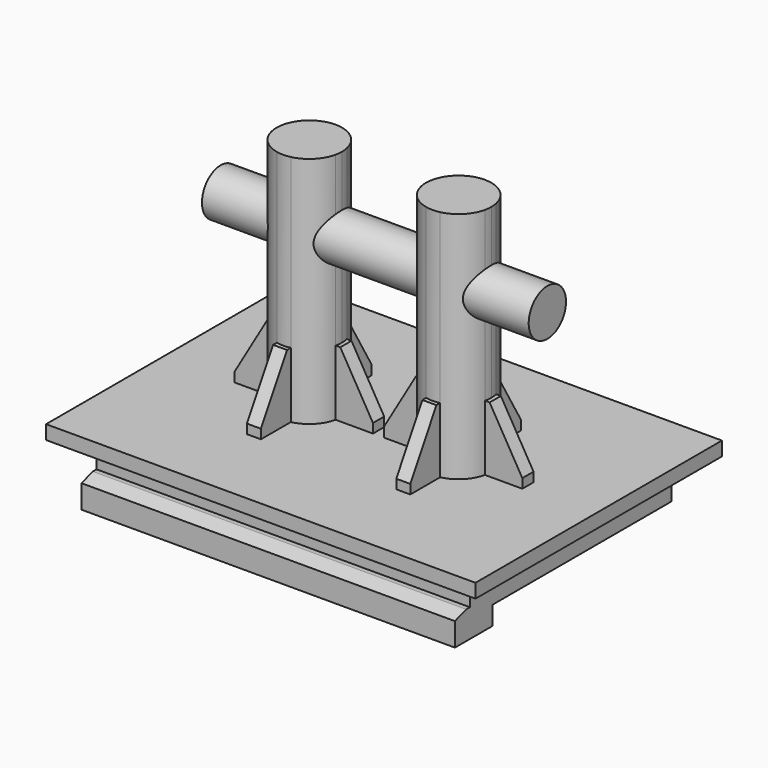
from build123d import *

# Parameters (mm, degrees)
F0_W       = 46
F0_H       = 33
F0_W_2     = 40
F0_H_2     = 27
F1_DEPTH   = 1.5
F2_DEPTH   = 5.5
F3_DEPTH   = 25
F4_R       = 2.5
F5_DEPTH   = 17.5
F6_DEPTH   = 7
F7_SIZE2   = 6
F7_SIZE    = 3.5
F7_2_SIZE2 = 6
F7_2_SIZE  = 3.5
F7_3_SIZE2 = 6
F7_3_SIZE  = 3.5
F7_4_SIZE2 = 6
F7_4_SIZE  = 3.5
F8_SIZE2   = 3.5
F8_SIZE    = 6
F8_2_SIZE2 = 3.5
F8_2_SIZE  = 6
F8_3_SIZE2 = 3.5
F8_3_SIZE  = 6
F8_4_SIZE2 = 3.5
F8_4_SIZE  = 6
F9_W       = 40
F9_H       = 3
F10_DEPTH  = 2
F11_W      = 40
F11_H      = 3
F12_DEPTH  = 2
F13_SIZE2  = 0.5
F13_SIZE   = 1.5


with BuildPart() as f1:
    # F0 (on Top) → F1 (new body)
    with BuildSketch(Plane.XY):
        Rectangle(F0_W, F0_H)
        Rectangle(F0_W_2, F0_H_2, mode=Mode.SUBTRACT)
        Rectangle(F0_W_2, F0_H_2)
        with BuildLine():
            Line((-0.5813014172, 0.75), (-0.5813014172, 0))
            Line((-0.5813014172, 0), (-0.5813014172, -0.75))
            Line((-0.5813014172, -0.75), (-4.5813014172, -0.75))
            ThreePointArc((-4.5813014172, -0.75), (-5.5251262658, -2.4748737342), (-7.25, -3.4186985828))
            Line((-7.25, -3.4186985828), (-7.25, -7.4186985828))
            Line((-7.25, -7.4186985828), (-8.75, -7.4186985828))
            Line((-8.75, -7.4186985828), (-8.75, -3.4186985828))
            ThreePointArc((-8.75, -3.4186985828), (-10.4748737342, -2.4748737342), (-11.4186985828, -0.75))
            Line((-11.4186985828, -0.75), (-15.4186985828, -0.75))
            Line((-15.4186985828, -0.75), (-15.4186985828, 0.75))
            Line((-15.4186985828, 0.75), (-11.4186985828, 0.75))
            ThreePointArc((-11.4186985828, 0.75), (-10.4748737342, 2.4748737342), (-8.75, 3.4186985828))
            Line((-8.75, 3.4186985828), (-8.75, 7.4186985828))
            Line((-8.75, 7.4186985828), (-7.25, 7.4186985828))
            Line((-7.25, 7.4186985828), (-7.25, 3.4186985828))
            ThreePointArc((-7.25, 3.4186985828), (-5.5251262658, 2.4748737342), (-4.5813014172, 0.75))
            Line((-4.5813014172, 0.75), (-0.5813014172, 0.75))
        make_face(mode=Mode.SUBTRACT)
        with BuildLine():
            Line((0.5813014172, -0.75), (0.5813014172, 0))
            Line((0.5813014172, 0), (0.5813014172, 0.75))
            Line((0.5813014172, 0.75), (4.5813014172, 0.75))
            ThreePointArc((4.5813014172, 0.75), (5.5251262658, 2.4748737342), (7.25, 3.4186985828))
            Line((7.25, 3.4186985828), (7.25, 7.4186985828))
            Line((7.25, 7.4186985828), (8.75, 7.4186985828))
            Line((8.75, 7.4186985828), (8.75, 3.4186985828))
            ThreePointArc((8.75, 3.4186985828), (10.4748737342, 2.4748737342), (11.4186985828, 0.75))
            Line((11.4186985828, 0.75), (15.4186985828, 0.75))
            Line((15.4186985828, 0.75), (15.4186985828, -0.75))
            Line((15.4186985828, -0.75), (11.4186985828, -0.75))
            ThreePointArc((11.4186985828, -0.75), (10.4748737342, -2.4748737342), (8.75, -3.4186985828))
            Line((8.75, -3.4186985828), (8.75, -7.4186985828))
            Line((8.75, -7.4186985828), (7.25, -7.4186985828))
            Line((7.25, -7.4186985828), (7.25, -3.4186985828))
            ThreePointArc((7.25, -3.4186985828), (5.5251262658, -2.4748737342), (4.5813014172, -0.75))
            Line((4.5813014172, -0.75), (0.5813014172, -0.75))
        make_face(mode=Mode.SUBTRACT)
        with BuildLine():
            ThreePointArc((-4.5813014172, -0.75), (-4.5203847167, -0.3771968718), (-4.5, 0))
            ThreePointArc((-4.5, 0), (-4.5203847167, 0.3771968718), (-4.5813014172, 0.75))
            ThreePointArc((-4.5813014172, 0.75), (-5.5251262658, 2.4748737342), (-7.25, 3.4186985828))
            Line((-7.25, 3.4186985828), (-8.75, 3.4186985828))
            ThreePointArc((-8.75, 3.4186985828), (-10.4748737342, 2.4748737342), (-11.4186985828, 0.75))
            ThreePointArc((-11.4186985828, 0.75), (-11.5, 0), (-11.4186985828, -0.75))
            ThreePointArc((-11.4186985828, -0.75), (-10.4748737342, -2.4748737342), (-8.75, -3.4186985828))
            ThreePointArc((-8.75, -3.4186985828), (-8, -3.5), (-7.25, -3.4186985828))
            ThreePointArc((-7.25, -3.4186985828), (-5.5251262658, -2.4748737342), (-4.5813014172, -0.75))
        make_face()
        with BuildLine():
            ThreePointArc((4.5813014172, 0.75), (4.5203847167, 0.3771968718), (4.5, 0))
            ThreePointArc((4.5, 0), (4.5203847167, -0.3771968718), (4.5813014172, -0.75))
            ThreePointArc((4.5813014172, -0.75), (5.5251262658, -2.4748737342), (7.25, -3.4186985828))
            ThreePointArc((7.25, -3.4186985828), (8, -3.5), (8.75, -3.4186985828))
            ThreePointArc((8.75, -3.4186985828), (10.4748737342, -2.4748737342), (11.4186985828, -0.75))
            ThreePointArc((11.4186985828, -0.75), (11.4796152833, -0.3771968718), (11.5, 0))
            ThreePointArc((11.5, 0), (11.4796152833, 0.3771968718), (11.4186985828, 0.75))
            ThreePointArc((11.4186985828, 0.75), (10.4748737342, 2.4748737342), (8.75, 3.4186985828))
            Line((8.75, 3.4186985828), (7.25, 3.4186985828))
            ThreePointArc((7.25, 3.4186985828), (5.5251262658, 2.4748737342), (4.5813014172, 0.75))
        make_face()
        with BuildLine():
            Line((-7.25, -7.4186985828), (-7.25, -3.4186985828))
            ThreePointArc((-7.25, -3.4186985828), (-8, -3.5), (-8.75, -3.4186985828))
            Line((-8.75, -3.4186985828), (-8.75, -7.4186985828))
            Line((-8.75, -7.4186985828), (-7.25, -7.4186985828))
        make_face()
        with BuildLine():
            ThreePointArc((-8.75, 3.4186985828), (-8, 3.5), (-7.25, 3.4186985828))
            Line((-7.25, 3.4186985828), (-7.25, 7.4186985828))
            Line((-7.25, 7.4186985828), (-8.75, 7.4186985828))
            Line((-8.75, 7.4186985828), (-8.75, 3.4186985828))
        make_face()
        with BuildLine():
            ThreePointArc((-11.4186985828, -0.75), (-11.5, 0), (-11.4186985828, 0.75))
            Line((-11.4186985828, 0.75), (-15.4186985828, 0.75))
            Line((-15.4186985828, 0.75), (-15.4186985828, -0.75))
            Line((-15.4186985828, -0.75), (-11.4186985828, -0.75))
        make_face()
        with BuildLine():
            Line((-4.5, 0), (-0.5813014172, 0))
            Line((-0.5813014172, 0), (-0.5813014172, 0.75))
            Line((-0.5813014172, 0.75), (-4.5813014172, 0.75))
            ThreePointArc((-4.5813014172, 0.75), (-4.5203847167, 0.3771968718), (-4.5, 0))
        make_face()
        with BuildLine():
            Line((-0.5813014172, -0.75), (-0.5813014172, 0))
            Line((-0.5813014172, 0), (-4.5, 0))
            ThreePointArc((-4.5, 0), (-4.5203847167, -0.3771968718), (-4.5813014172, -0.75))
            Line((-4.5813014172, -0.75), (-0.5813014172, -0.75))
        make_face()
        with BuildLine():
            Line((4.5, 0), (0.5813014172, 0))
            Line((0.5813014172, 0), (0.5813014172, -0.75))
            Line((0.5813014172, -0.75), (4.5813014172, -0.75))
            ThreePointArc((4.5813014172, -0.75), (4.5203847167, -0.3771968718), (4.5, 0))
        make_face()
        with BuildLine():
            Line((0.5813014172, 0.75), (0.5813014172, 0))
            Line((0.5813014172, 0), (4.5, 0))
            ThreePointArc((4.5, 0), (4.5203847167, 0.3771968718), (4.5813014172, 0.75))
            Line((4.5813014172, 0.75), (0.5813014172, 0.75))
        make_face()
        with BuildLine():
            Line((7.25, 7.4186985828), (7.25, 3.4186985828))
            ThreePointArc((7.25, 3.4186985828), (8, 3.5), (8.75, 3.4186985828))
            Line((8.75, 3.4186985828), (8.75, 7.4186985828))
            Line((8.75, 7.4186985828), (7.25, 7.4186985828))
        make_face()
        with BuildLine():
            Line((15.4186985828, 0.75), (11.4186985828, 0.75))
            ThreePointArc((11.4186985828, 0.75), (11.4796152833, 0.3771968718), (11.5, 0))
            ThreePointArc((11.5, 0), (11.4796152833, -0.3771968718), (11.4186985828, -0.75))
            Line((11.4186985828, -0.75), (15.4186985828, -0.75))
            Line((15.4186985828, -0.75), (15.4186985828, 0.75))
        make_face()
        with BuildLine():
            ThreePointArc((8.75, -3.4186985828), (8, -3.5), (7.25, -3.4186985828))
            Line((7.25, -3.4186985828), (7.25, -7.4186985828))
            Line((7.25, -7.4186985828), (8.75, -7.4186985828))
            Line((8.75, -7.4186985828), (8.75, -3.4186985828))
        make_face()
        with BuildLine():
            ThreePointArc((8.75, 3.4186985828), (8, 3.5), (7.25, 3.4186985828))
            Line((7.25, 3.4186985828), (8.75, 3.4186985828))
        make_face()
        with BuildLine():
            Line((-8.75, 3.4186985828), (-7.25, 3.4186985828))
            ThreePointArc((-7.25, 3.4186985828), (-8, 3.5), (-8.75, 3.4186985828))
        make_face()
    extrude(amount=-F1_DEPTH)

    # F0 (on Top) → F2 (join)
    with BuildSketch(Plane.XY):
        Rectangle(F0_W_2, F0_H_2)
        with BuildLine():
            Line((-0.5813014172, 0.75), (-0.5813014172, 0))
            Line((-0.5813014172, 0), (-0.5813014172, -0.75))
            Line((-0.5813014172, -0.75), (-4.5813014172, -0.75))
            ThreePointArc((-4.5813014172, -0.75), (-5.5251262658, -2.4748737342), (-7.25, -3.4186985828))
            Line((-7.25, -3.4186985828), (-7.25, -7.4186985828))
            Line((-7.25, -7.4186985828), (-8.75, -7.4186985828))
            Line((-8.75, -7.4186985828), (-8.75, -3.4186985828))
            ThreePointArc((-8.75, -3.4186985828), (-10.4748737342, -2.4748737342), (-11.4186985828, -0.75))
            Line((-11.4186985828, -0.75), (-15.4186985828, -0.75))
            Line((-15.4186985828, -0.75), (-15.4186985828, 0.75))
            Line((-15.4186985828, 0.75), (-11.4186985828, 0.75))
            ThreePointArc((-11.4186985828, 0.75), (-10.4748737342, 2.4748737342), (-8.75, 3.4186985828))
            Line((-8.75, 3.4186985828), (-8.75, 7.4186985828))
            Line((-8.75, 7.4186985828), (-7.25, 7.4186985828))
            Line((-7.25, 7.4186985828), (-7.25, 3.4186985828))
            ThreePointArc((-7.25, 3.4186985828), (-5.5251262658, 2.4748737342), (-4.5813014172, 0.75))
            Line((-4.5813014172, 0.75), (-0.5813014172, 0.75))
        make_face(mode=Mode.SUBTRACT)
        with BuildLine():
            Line((0.5813014172, -0.75), (0.5813014172, 0))
            Line((0.5813014172, 0), (0.5813014172, 0.75))
            Line((0.5813014172, 0.75), (4.5813014172, 0.75))
            ThreePointArc((4.5813014172, 0.75), (5.5251262658, 2.4748737342), (7.25, 3.4186985828))
            Line((7.25, 3.4186985828), (7.25, 7.4186985828))
            Line((7.25, 7.4186985828), (8.75, 7.4186985828))
            Line((8.75, 7.4186985828), (8.75, 3.4186985828))
            ThreePointArc((8.75, 3.4186985828), (10.4748737342, 2.4748737342), (11.4186985828, 0.75))
            Line((11.4186985828, 0.75), (15.4186985828, 0.75))
            Line((15.4186985828, 0.75), (15.4186985828, -0.75))
            Line((15.4186985828, -0.75), (11.4186985828, -0.75))
            ThreePointArc((11.4186985828, -0.75), (10.4748737342, -2.4748737342), (8.75, -3.4186985828))
            Line((8.75, -3.4186985828), (8.75, -7.4186985828))
            Line((8.75, -7.4186985828), (7.25, -7.4186985828))
            Line((7.25, -7.4186985828), (7.25, -3.4186985828))
            ThreePointArc((7.25, -3.4186985828), (5.5251262658, -2.4748737342), (4.5813014172, -0.75))
            Line((4.5813014172, -0.75), (0.5813014172, -0.75))
        make_face(mode=Mode.SUBTRACT)
        with BuildLine():
            ThreePointArc((-4.5813014172, -0.75), (-4.5203847167, -0.3771968718), (-4.5, 0))
            ThreePointArc((-4.5, 0), (-4.5203847167, 0.3771968718), (-4.5813014172, 0.75))
            ThreePointArc((-4.5813014172, 0.75), (-5.5251262658, 2.4748737342), (-7.25, 3.4186985828))
            Line((-7.25, 3.4186985828), (-8.75, 3.4186985828))
            ThreePointArc((-8.75, 3.4186985828), (-10.4748737342, 2.4748737342), (-11.4186985828, 0.75))
            ThreePointArc((-11.4186985828, 0.75), (-11.5, 0), (-11.4186985828, -0.75))
            ThreePointArc((-11.4186985828, -0.75), (-10.4748737342, -2.4748737342), (-8.75, -3.4186985828))
            ThreePointArc((-8.75, -3.4186985828), (-8, -3.5), (-7.25, -3.4186985828))
            ThreePointArc((-7.25, -3.4186985828), (-5.5251262658, -2.4748737342), (-4.5813014172, -0.75))
        make_face()
        with BuildLine():
            ThreePointArc((4.5813014172, 0.75), (4.5203847167, 0.3771968718), (4.5, 0))
            ThreePointArc((4.5, 0), (4.5203847167, -0.3771968718), (4.5813014172, -0.75))
            ThreePointArc((4.5813014172, -0.75), (5.5251262658, -2.4748737342), (7.25, -3.4186985828))
            ThreePointArc((7.25, -3.4186985828), (8, -3.5), (8.75, -3.4186985828))
            ThreePointArc((8.75, -3.4186985828), (10.4748737342, -2.4748737342), (11.4186985828, -0.75))
            ThreePointArc((11.4186985828, -0.75), (11.4796152833, -0.3771968718), (11.5, 0))
            ThreePointArc((11.5, 0), (11.4796152833, 0.3771968718), (11.4186985828, 0.75))
            ThreePointArc((11.4186985828, 0.75), (10.4748737342, 2.4748737342), (8.75, 3.4186985828))
            Line((8.75, 3.4186985828), (7.25, 3.4186985828))
            ThreePointArc((7.25, 3.4186985828), (5.5251262658, 2.4748737342), (4.5813014172, 0.75))
        make_face()
        with BuildLine():
            Line((-7.25, -7.4186985828), (-7.25, -3.4186985828))
            ThreePointArc((-7.25, -3.4186985828), (-8, -3.5), (-8.75, -3.4186985828))
            Line((-8.75, -3.4186985828), (-8.75, -7.4186985828))
            Line((-8.75, -7.4186985828), (-7.25, -7.4186985828))
        make_face()
        with BuildLine():
            ThreePointArc((-11.4186985828, -0.75), (-11.5, 0), (-11.4186985828, 0.75))
            Line((-11.4186985828, 0.75), (-15.4186985828, 0.75))
            Line((-15.4186985828, 0.75), (-15.4186985828, -0.75))
            Line((-15.4186985828, -0.75), (-11.4186985828, -0.75))
        make_face()
        with BuildLine():
            ThreePointArc((-8.75, 3.4186985828), (-8, 3.5), (-7.25, 3.4186985828))
            Line((-7.25, 3.4186985828), (-7.25, 7.4186985828))
            Line((-7.25, 7.4186985828), (-8.75, 7.4186985828))
            Line((-8.75, 7.4186985828), (-8.75, 3.4186985828))
        make_face()
        with BuildLine():
            Line((7.25, 7.4186985828), (7.25, 3.4186985828))
            ThreePointArc((7.25, 3.4186985828), (8, 3.5), (8.75, 3.4186985828))
            Line((8.75, 3.4186985828), (8.75, 7.4186985828))
            Line((8.75, 7.4186985828), (7.25, 7.4186985828))
        make_face()
        with BuildLine():
            Line((15.4186985828, 0.75), (11.4186985828, 0.75))
            ThreePointArc((11.4186985828, 0.75), (11.4796152833, 0.3771968718), (11.5, 0))
            ThreePointArc((11.5, 0), (11.4796152833, -0.3771968718), (11.4186985828, -0.75))
            Line((11.4186985828, -0.75), (15.4186985828, -0.75))
            Line((15.4186985828, -0.75), (15.4186985828, 0.75))
        make_face()
        with BuildLine():
            ThreePointArc((8.75, -3.4186985828), (8, -3.5), (7.25, -3.4186985828))
            Line((7.25, -3.4186985828), (7.25, -7.4186985828))
            Line((7.25, -7.4186985828), (8.75, -7.4186985828))
            Line((8.75, -7.4186985828), (8.75, -3.4186985828))
        make_face()
        with BuildLine():
            Line((4.5, 0), (0.5813014172, 0))
            Line((0.5813014172, 0), (0.5813014172, -0.75))
            Line((0.5813014172, -0.75), (4.5813014172, -0.75))
            ThreePointArc((4.5813014172, -0.75), (4.5203847167, -0.3771968718), (4.5, 0))
        make_face()
        with BuildLine():
            Line((0.5813014172, 0.75), (0.5813014172, 0))
            Line((0.5813014172, 0), (4.5, 0))
            ThreePointArc((4.5, 0), (4.5203847167, 0.3771968718), (4.5813014172, 0.75))
            Line((4.5813014172, 0.75), (0.5813014172, 0.75))
        make_face()
        with BuildLine():
            Line((-0.5813014172, -0.75), (-0.5813014172, 0))
            Line((-0.5813014172, 0), (-4.5, 0))
            ThreePointArc((-4.5, 0), (-4.5203847167, -0.3771968718), (-4.5813014172, -0.75))
            Line((-4.5813014172, -0.75), (-0.5813014172, -0.75))
        make_face()
        with BuildLine():
            Line((-4.5, 0), (-0.5813014172, 0))
            Line((-0.5813014172, 0), (-0.5813014172, 0.75))
            Line((-0.5813014172, 0.75), (-4.5813014172, 0.75))
            ThreePointArc((-4.5813014172, 0.75), (-4.5203847167, 0.3771968718), (-4.5, 0))
        make_face()
    extrude(amount=-F2_DEPTH)

    # F0 (on Top) → F3 (join)
    with BuildSketch(Plane.XY):
        with BuildLine():
            ThreePointArc((-4.5813014172, -0.75), (-4.5203847167, -0.3771968718), (-4.5, 0))
            ThreePointArc((-4.5, 0), (-4.5203847167, 0.3771968718), (-4.5813014172, 0.75))
            ThreePointArc((-4.5813014172, 0.75), (-5.5251262658, 2.4748737342), (-7.25, 3.4186985828))
            Line((-7.25, 3.4186985828), (-8.75, 3.4186985828))
            ThreePointArc((-8.75, 3.4186985828), (-10.4748737342, 2.4748737342), (-11.4186985828, 0.75))
            ThreePointArc((-11.4186985828, 0.75), (-11.5, 0), (-11.4186985828, -0.75))
            ThreePointArc((-11.4186985828, -0.75), (-10.4748737342, -2.4748737342), (-8.75, -3.4186985828))
            ThreePointArc((-8.75, -3.4186985828), (-8, -3.5), (-7.25, -3.4186985828))
            ThreePointArc((-7.25, -3.4186985828), (-5.5251262658, -2.4748737342), (-4.5813014172, -0.75))
        make_face()
        with BuildLine():
            ThreePointArc((4.5813014172, 0.75), (4.5203847167, 0.3771968718), (4.5, 0))
            ThreePointArc((4.5, 0), (4.5203847167, -0.3771968718), (4.5813014172, -0.75))
            ThreePointArc((4.5813014172, -0.75), (5.5251262658, -2.4748737342), (7.25, -3.4186985828))
            ThreePointArc((7.25, -3.4186985828), (8, -3.5), (8.75, -3.4186985828))
            ThreePointArc((8.75, -3.4186985828), (10.4748737342, -2.4748737342), (11.4186985828, -0.75))
            ThreePointArc((11.4186985828, -0.75), (11.4796152833, -0.3771968718), (11.5, 0))
            ThreePointArc((11.5, 0), (11.4796152833, 0.3771968718), (11.4186985828, 0.75))
            ThreePointArc((11.4186985828, 0.75), (10.4748737342, 2.4748737342), (8.75, 3.4186985828))
            Line((8.75, 3.4186985828), (7.25, 3.4186985828))
            ThreePointArc((7.25, 3.4186985828), (5.5251262658, 2.4748737342), (4.5813014172, 0.75))
        make_face()
        with BuildLine():
            Line((-8.75, 3.4186985828), (-7.25, 3.4186985828))
            ThreePointArc((-7.25, 3.4186985828), (-8, 3.5), (-8.75, 3.4186985828))
        make_face()
        with BuildLine():
            ThreePointArc((8.75, 3.4186985828), (8, 3.5), (7.25, 3.4186985828))
            Line((7.25, 3.4186985828), (8.75, 3.4186985828))
        make_face()
    extrude(amount=F3_DEPTH)

    # F4 (on Right) → F5 (join, symmetric)
    with BuildSketch(Plane.YZ):
        with Locations((0, 17)):
            Circle(F4_R)
    extrude(amount=F5_DEPTH, both=True)

    # F0 (on Top) → F6 (join)
    with BuildSketch(Plane.XY):
        with BuildLine():
            ThreePointArc((-8.75, 3.4186985828), (-8, 3.5), (-7.25, 3.4186985828))
            Line((-7.25, 3.4186985828), (-7.25, 7.4186985828))
            Line((-7.25, 7.4186985828), (-8.75, 7.4186985828))
            Line((-8.75, 7.4186985828), (-8.75, 3.4186985828))
        make_face()
        with BuildLine():
            Line((-7.25, -7.4186985828), (-7.25, -3.4186985828))
            ThreePointArc((-7.25, -3.4186985828), (-8, -3.5), (-8.75, -3.4186985828))
            Line((-8.75, -3.4186985828), (-8.75, -7.4186985828))
            Line((-8.75, -7.4186985828), (-7.25, -7.4186985828))
        make_face()
        with BuildLine():
            ThreePointArc((-11.4186985828, -0.75), (-11.5, 0), (-11.4186985828, 0.75))
            Line((-11.4186985828, 0.75), (-15.4186985828, 0.75))
            Line((-15.4186985828, 0.75), (-15.4186985828, -0.75))
            Line((-15.4186985828, -0.75), (-11.4186985828, -0.75))
        make_face()
        with BuildLine():
            Line((-0.5813014172, -0.75), (-0.5813014172, 0))
            Line((-0.5813014172, 0), (-4.5, 0))
            ThreePointArc((-4.5, 0), (-4.5203847167, -0.3771968718), (-4.5813014172, -0.75))
            Line((-4.5813014172, -0.75), (-0.5813014172, -0.75))
        make_face()
        with BuildLine():
            Line((4.5, 0), (0.5813014172, 0))
            Line((0.5813014172, 0), (0.5813014172, -0.75))
            Line((0.5813014172, -0.75), (4.5813014172, -0.75))
            ThreePointArc((4.5813014172, -0.75), (4.5203847167, -0.3771968718), (4.5, 0))
        make_face()
        with BuildLine():
            ThreePointArc((8.75, -3.4186985828), (8, -3.5), (7.25, -3.4186985828))
            Line((7.25, -3.4186985828), (7.25, -7.4186985828))
            Line((7.25, -7.4186985828), (8.75, -7.4186985828))
            Line((8.75, -7.4186985828), (8.75, -3.4186985828))
        make_face()
        with BuildLine():
            Line((15.4186985828, 0.75), (11.4186985828, 0.75))
            ThreePointArc((11.4186985828, 0.75), (11.4796152833, 0.3771968718), (11.5, 0))
            ThreePointArc((11.5, 0), (11.4796152833, -0.3771968718), (11.4186985828, -0.75))
            Line((11.4186985828, -0.75), (15.4186985828, -0.75))
            Line((15.4186985828, -0.75), (15.4186985828, 0.75))
        make_face()
        with BuildLine():
            Line((7.25, 7.4186985828), (7.25, 3.4186985828))
            ThreePointArc((7.25, 3.4186985828), (8, 3.5), (8.75, 3.4186985828))
            Line((8.75, 3.4186985828), (8.75, 7.4186985828))
            Line((8.75, 7.4186985828), (7.25, 7.4186985828))
        make_face()
        with BuildLine():
            Line((-4.5, 0), (-0.5813014172, 0))
            Line((-0.5813014172, 0), (-0.5813014172, 0.75))
            Line((-0.5813014172, 0.75), (-4.5813014172, 0.75))
            ThreePointArc((-4.5813014172, 0.75), (-4.5203847167, 0.3771968718), (-4.5, 0))
        make_face()
        with BuildLine():
            Line((0.5813014172, 0.75), (0.5813014172, 0))
            Line((0.5813014172, 0), (4.5, 0))
            ThreePointArc((4.5, 0), (4.5203847167, 0.3771968718), (4.5813014172, 0.75))
            Line((4.5813014172, 0.75), (0.5813014172, 0.75))
        make_face()
    extrude(amount=F6_DEPTH)

    # F7
    f7_edges = [f1.edges().sort_by_distance(p)[0] for p in [
        (-8, -7.418699, 7),
    ]]
    f7_side = f1.faces().sort_by_distance((-8, -5.445788, 7))[0]
    chamfer(f7_edges, length=F7_SIZE, length2=F7_SIZE2, reference=f7_side)

    # F7#2
    f7_2_edges = [f1.edges().sort_by_distance(p)[0] for p in [
        (-0.581301, 0, 7),
    ]]
    f7_2_side = f1.faces().sort_by_distance((-2.554212, 0, 7))[0]
    chamfer(f7_2_edges, length=F7_2_SIZE, length2=F7_2_SIZE2, reference=f7_2_side)

    # F7#3
    f7_3_edges = [f1.edges().sort_by_distance(p)[0] for p in [
        (-8, 7.418699, 7),
    ]]
    f7_3_side = f1.faces().sort_by_distance((-8, 5.445788, 7))[0]
    chamfer(f7_3_edges, length=F7_3_SIZE, length2=F7_3_SIZE2, reference=f7_3_side)

    # F7#4
    f7_4_edges = [f1.edges().sort_by_distance(p)[0] for p in [
        (-15.418699, 0, 7),
    ]]
    f7_4_side = f1.faces().sort_by_distance((-13.445788, 0, 7))[0]
    chamfer(f7_4_edges, length=F7_4_SIZE, length2=F7_4_SIZE2, reference=f7_4_side)

    # F8
    f8_edges = [f1.edges().sort_by_distance(p)[0] for p in [
        (0.581301, 0, 7),
    ]]
    f8_side = f1.faces().sort_by_distance((0.581301, 0, 3.5))[0]
    chamfer(f8_edges, length=F8_SIZE, length2=F8_SIZE2, reference=f8_side)

    # F8#2
    f8_2_edges = [f1.edges().sort_by_distance(p)[0] for p in [
        (8, -7.418699, 7),
    ]]
    f8_2_side = f1.faces().sort_by_distance((8, -7.418699, 3.5))[0]
    chamfer(f8_2_edges, length=F8_2_SIZE, length2=F8_2_SIZE2, reference=f8_2_side)

    # F8#3
    f8_3_edges = [f1.edges().sort_by_distance(p)[0] for p in [
        (15.418699, 0, 7),
    ]]
    f8_3_side = f1.faces().sort_by_distance((15.418699, 0, 3.5))[0]
    chamfer(f8_3_edges, length=F8_3_SIZE, length2=F8_3_SIZE2, reference=f8_3_side)

    # F8#4
    f8_4_edges = [f1.edges().sort_by_distance(p)[0] for p in [
        (8, 7.418699, 7),
    ]]
    f8_4_side = f1.faces().sort_by_distance((8, 7.418699, 3.5))[0]
    chamfer(f8_4_edges, length=F8_4_SIZE, length2=F8_4_SIZE2, reference=f8_4_side)

    # F9 (on face) → F10 (join)
    with BuildSketch(Plane(origin=(0, 0, -5.5), x_dir=(1, 0, 0), z_dir=(0, 0, -1))):
        with Locations((0, 12)):
            Rectangle(F9_W, F9_H)
    extrude(amount=F10_DEPTH)

    # F11 (on face) → F12 (join)
    with BuildSketch(Plane.XZ.offset(13.5)):
        with Locations((0, -6)):
            Rectangle(F11_W, F11_H)
    extrude(amount=F12_DEPTH)

    # F13
    f13_edges = [f1.edges().sort_by_distance(p)[0] for p in [
        (0, -15.5, -4.5),
    ]]
    f13_side = f1.faces().sort_by_distance((0, -14.5, -4.5))[0]
    chamfer(f13_edges, length=F13_SIZE, length2=F13_SIZE2, reference=f13_side)


solid = f1.part
